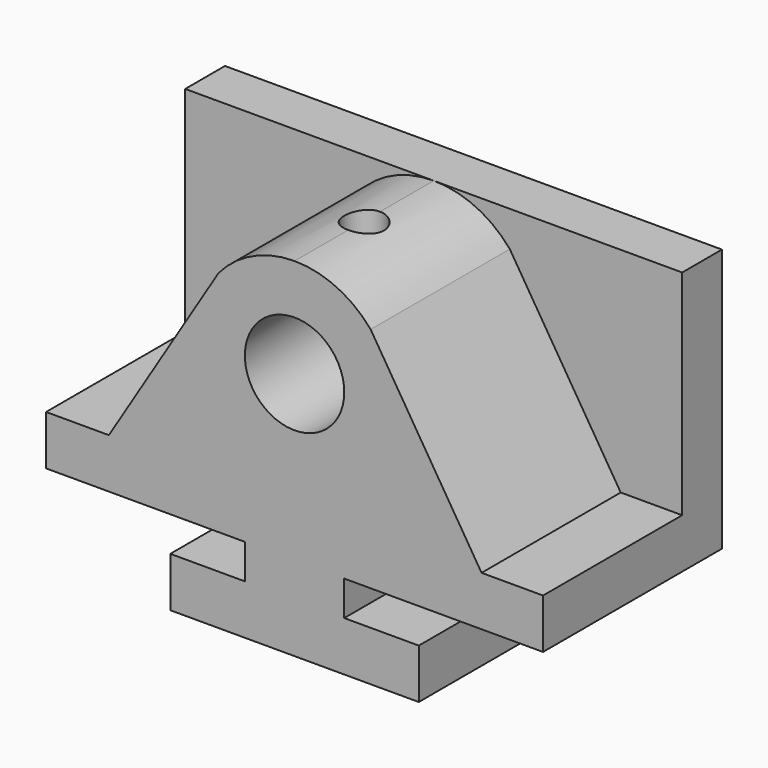
from build123d import *

# Parameters (mm, degrees)
F1_DEPTH = 28.575
F3_DEPTH = 44.45
F4_R     = 12.7
F5_DEPTH = 57.15
F6_R     = 5.08
F7_DEPTH = 25.4


with BuildPart() as f1:
    # F0 (on Front) → F1 (new body, symmetric)
    with BuildSketch(Plane.XZ):
        Polygon((31.75, 12.7), (31.75, 0), (95.25, 0), (95.25, 12.7), (76.2, 12.7), (76.2, 21.59), (127, 21.59), (127, 88.9), (0, 88.9), (0, 21.59), (50.8, 21.59), (50.8, 12.7), align=None)
    extrude(amount=F1_DEPTH, both=True)

    # F2 (on face) → F3 (cut)
    with BuildSketch(Plane.XZ.offset(28.575)):
        with BuildLine():
            Line((0, 88.9), (0, 34.29))
            Line((0, 34.29), (16.044335, 34.29))
            Line((16.044335, 34.29), (44.050399, 79.836248))
            ThreePointArc((44.050399, 79.836248), (52.771084, 86.522822), (63.5, 88.9))
            Line((63.5, 88.9), (0, 88.9))
        make_face()
        with BuildLine():
            Line((127, 88.9), (63.5, 88.9))
            ThreePointArc((63.5, 88.9), (74.228916, 86.522822), (82.949601, 79.836248))
            Line((82.949601, 79.836248), (111.294335, 34.29))
            Line((111.294335, 34.29), (127, 34.29))
            Line((127, 34.29), (127, 88.9))
        make_face()
    extrude(amount=-F3_DEPTH, mode=Mode.SUBTRACT)

    # F4 (on face) → F5 (cut)
    with BuildSketch(Plane.XZ.offset(28.575)):
        with Locations((63.5, 63.5)):
            Circle(F4_R)
    extrude(amount=-F5_DEPTH, mode=Mode.SUBTRACT)

    # F6 (on face) → F7 (cut)
    with BuildSketch(Plane.XY.offset(88.9)):
        with Locations((63.5, -6.35)):
            Circle(F6_R)
    extrude(amount=-F7_DEPTH, mode=Mode.SUBTRACT)


solid = f1.part
